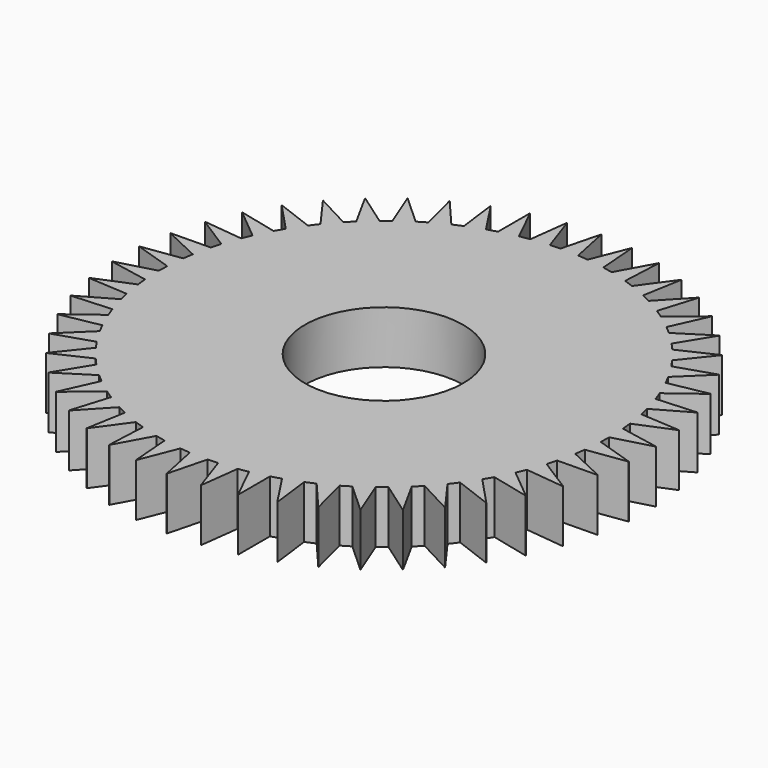
from build123d import *

# Parameters (mm, degrees)
F0_R     = 127
F0_R_2   = 38.1
F1_DEPTH = 25.4
F4_DEPTH = 25.4
F5_COUNT = 50


with BuildPart() as f1:
    # F0 (on Top) → F1 (new body)
    with BuildSketch(Plane.XY):
        Circle(F0_R)
        Circle(F0_R_2, mode=Mode.SUBTRACT)
    extrude(amount=F1_DEPTH)

    # F2 (on face) → F4 (cut, through all)
    with BuildSketch(Plane.XY.offset(25.4)):
        with BuildLine():
            ThreePointArc((-28.7436188965, 123.704504254), (-36.4189556003, 121.6661813035), (-43.9518915595, 119.152134804))
            Line((-43.9518915595, 119.152134804), (-33.4343760083, 103.1371024657))
            Line((-33.4343760083, 103.1371024657), (-28.7436188965, 104.5451795636))
            Line((-28.7436188965, 104.5451795636), (-28.7436188965, 123.704504254))
        make_face()
    f4 = extrude(amount=-F4_DEPTH, mode=Mode.SUBTRACT)

    # F5: F4 ×50 about axis
    f5_axis = Axis((0, 0, -32.3386713862), (0, 0, -1))
    for i in range(1, F5_COUNT):
        add(f4.rotate(f5_axis, i * 360 / F5_COUNT), mode=Mode.SUBTRACT)


solid = f1.part
